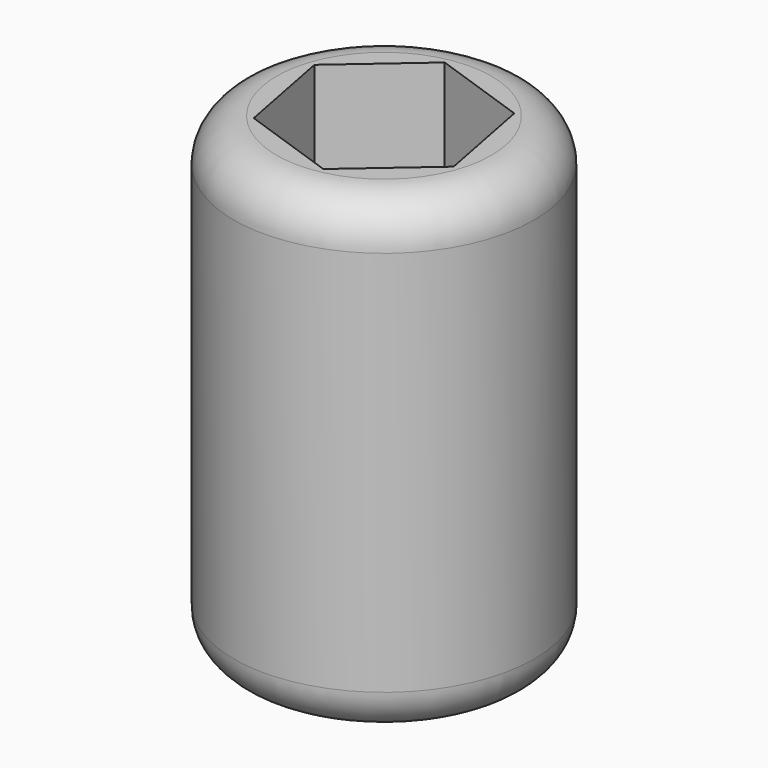
from build123d import *

# Parameters (mm, degrees)
F0_R     = 44.45
F1_DEPTH = 139.7
F2_R     = 12.7
F3_R     = 22.915051
F4_DEPTH = 127
F6_DEPTH = 127


with BuildPart() as f1:
    # F0 (on Top) → F1 (new body)
    with BuildSketch(Plane.XY):
        Circle(F0_R)
    extrude(amount=F1_DEPTH)

    # F2
    f2_edges = [f1.edges().sort_by_distance(p)[0] for p in [
        (-44.45, 0, 0),
        (-44.45, 0, 139.7),
    ]]
    fillet(f2_edges, radius=F2_R)

    # F3 (on face) → F4 (cut)
    with BuildSketch(Plane.XY.offset(139.7)):
        Circle(F3_R)
    extrude(amount=-F4_DEPTH, mode=Mode.SUBTRACT)

    # F5 (on face) → F6 (cut)
    with BuildSketch(Plane.XY.offset(139.7)):
        Polygon((28.460228, -9.844098), (22.755353, 19.725232), (-5.704875, 29.56933), (-28.460228, 9.844098), (-22.755353, -19.725232), (5.704875, -29.56933), align=None)
    extrude(amount=-F6_DEPTH, mode=Mode.SUBTRACT)


solid = f1.part
